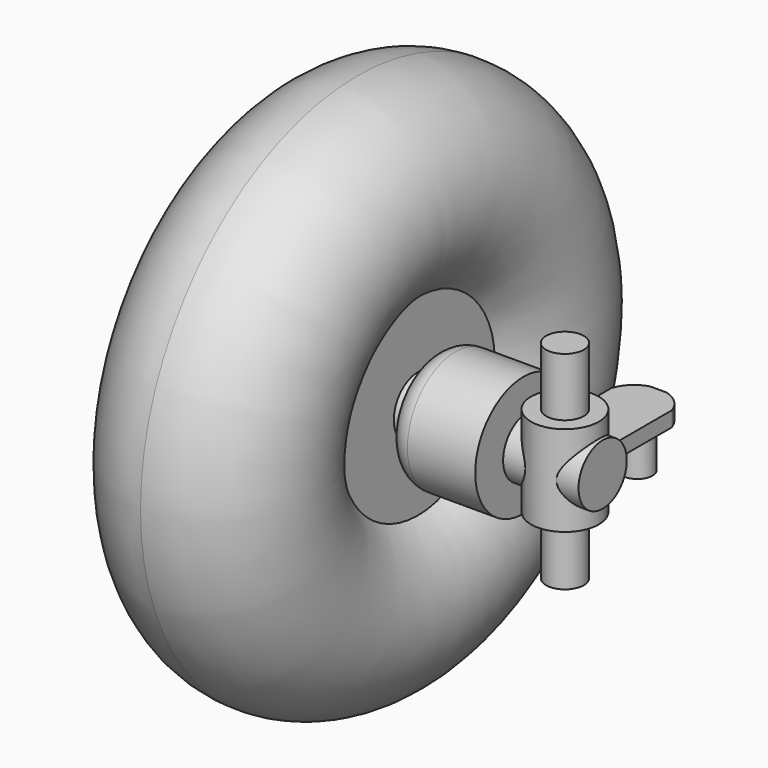
from build123d import *

# Parameters (mm, degrees)
TORUS_R                   = 13
CYLINDER006_R             = 4.5
CYLINDER006_DEPTH         = 12
CYLINDER007_R             = 4
CYLINDER007_DEPTH         = 10
PAD002_DEPTH              = 10
BOX001_W                  = 8
BOX001_H                  = 15.5
BOX001_DEPTH              = 2
CYLINDER008_R             = 2
CYLINDER008_DEPTH         = 7.5
CYLINDER005_R             = 2.5
CYLINDER005_DEPTH         = 27.5
CYLINDER009_R             = 1.5
CYLINDER009_DEPTH         = 20
CYLINDER020_R             = 4
CYLINDER020_DEPTH         = 2
BOX005_W                  = 4.6
BOX005_H                  = 1.7
BOX005_DEPTH              = 15
FILLET004_R               = 1
BOX004_W                  = 1.7
BOX004_H                  = 4.6
BOX004_DEPTH              = 15
FILLET003_R               = 1
CYLINDER021_R             = 1.5
CYLINDER021_DEPTH         = 10
PAD004_DEPTH              = 2.5
CYLINDER019_R             = 1.5
CYLINDER019_DEPTH         = 11
CYLINDER018_R             = 8
CYLINDER018_DEPTH         = 12
FILLET005_R               = 3
FUSION008_PLACEMENT_ANGLE = 90
CYLINDER013_R             = 16
CYLINDER013_DEPTH         = 20


with BuildPart() as toro:
    # Torus → Torus (revolve)
    with BuildSketch(Plane(origin=(-55, 0, 11), x_dir=(0, 0, -1), z_dir=(0, -1, 0))):
        with Locations((23, 0)):
            Circle(TORUS_R)
    revolve(axis=Axis((-55, 0, 11), (1, 0, 0)))


with BuildPart() as cilindro006:
    # Cylinder006 → Cylinder006 (new body)
    with BuildSketch(Plane.XY.offset(-6)):
        Circle(CYLINDER006_R)
    extrude(amount=CYLINDER006_DEPTH)


with BuildPart() as cilindro007:
    # Cylinder007 → Cylinder007 (new body)
    with BuildSketch(Plane(origin=(-5, 0, 0), x_dir=(0, 0, -1), z_dir=(1, 0, 0))):
        Circle(CYLINDER007_R)
    extrude(amount=CYLINDER007_DEPTH)


with BuildPart() as pad002:
    # Sketch002 → Pad002 (new body)
    with BuildSketch(Plane.XY):
        with BuildLine():
            ThreePointArc((4.129921, 10.668605), (-0.003253, 15.63264), (-4.128733, 10.662209))
            Line((-5.229172, 10.780737), (-4.128733, 10.662209))
            Line((-5.229172, 16.944185), (-5.229172, 10.780737))
            Line((5.596368, 16.944185), (-5.229172, 16.944185))
            Line((5.596368, 10.638987), (5.596368, 16.944185))
            Line((4.124442, 10.638987), (5.596368, 10.638987))
            Line((4.129921, 10.668605), (4.124442, 10.638987))
        make_face()
    extrude(amount=PAD002_DEPTH)


with BuildPart() as cut001:
    # Box001 → Box001 (new body)
    with BuildSketch(Plane(origin=(-4, 0, 0), x_dir=(1, 0, 0), z_dir=(0, 0, 1))):
        with Locations((4, 7.75)):
            Rectangle(BOX001_W, BOX001_H)
    extrude(amount=BOX001_DEPTH)

    # Cut001: cut Pad002
    add(pad002.part, mode=Mode.SUBTRACT)


with BuildPart() as cilindro008:
    # Cylinder008 → Cylinder008 (new body)
    with BuildSketch(Plane(origin=(0, 12, -6), x_dir=(1, 0, 0), z_dir=(0, 0, 1))):
        Circle(CYLINDER008_R)
    extrude(amount=CYLINDER008_DEPTH)


with BuildPart() as fusion001:
    # Cylinder005 → Cylinder005 (new body)
    with BuildSketch(Plane.XY.offset(-13.75)):
        Circle(CYLINDER005_R)
    extrude(amount=CYLINDER005_DEPTH)

    # Fusion001: union Cilindro006, Cilindro007, Cut001, Cilindro008
    add(cilindro006.part)
    add(cilindro007.part)
    add(cut001.part)
    add(cilindro008.part)


with BuildPart() as fusion001_1:
    # Fusion001 placement: moved
    add(fusion001.part.moved(Location((-27.5, 0, 11))))


with BuildPart() as cylinder009:
    # Cylinder009 → Cylinder009 (new body)
    with BuildSketch(Plane(origin=(-43, 0, 11), x_dir=(0, 0, -1), z_dir=(1, 0, 0))):
        Circle(CYLINDER009_R)
    extrude(amount=CYLINDER009_DEPTH)


with BuildPart() as cilindro016:
    # Cylinder020 → Cylinder020 (new body)
    with BuildSketch(Plane.XY.offset(12)):
        Circle(CYLINDER020_R)
    extrude(amount=CYLINDER020_DEPTH)


with BuildPart() as fillet004:
    # Box005 → Box005 (new body)
    with BuildSketch(Plane(origin=(-2.3, -0.85, 22), x_dir=(1, 0, 0), z_dir=(0, 0, 1))):
        with Locations((2.3, 0.85)):
            Rectangle(BOX005_W, BOX005_H)
    extrude(amount=BOX005_DEPTH)

    # Fillet004
    fillet004_edges = [fillet004.edges().sort_by_distance(p)[0] for p in [
        (-2.3, 0, 37),
        (2.3, 0, 37),
    ]]
    fillet(fillet004_edges, radius=FILLET004_R)


with BuildPart() as fusion006:
    # Box004 → Box004 (new body)
    with BuildSketch(Plane(origin=(-0.85, -2.3, 22), x_dir=(1, 0, 0), z_dir=(0, 0, 1))):
        with Locations((0.85, 2.3)):
            Rectangle(BOX004_W, BOX004_H)
    extrude(amount=BOX004_DEPTH)

    # Fillet003
    fillet003_edges = [fusion006.edges().sort_by_distance(p)[0] for p in [
        (0, -2.3, 37),
        (0, 2.3, 37),
    ]]
    fillet(fillet003_edges, radius=FILLET003_R)

    # Fusion006: union Fillet004
    add(fillet004.part)


with BuildPart() as fusion006_1:
    # Fusion006 placement: moved
    add(fusion006.part.moved(Location((0, 0, -8))))


with BuildPart() as taladro_tornillo001:
    # Cylinder021 → Cylinder021 (new body)
    with BuildSketch(Plane(origin=(0, 0, 4), x_dir=(1, 0, 0), z_dir=(0, 1, 0))):
        Circle(CYLINDER021_R)
    extrude(amount=CYLINDER021_DEPTH)


with BuildPart() as tuerca001:
    # Sketch005 → Pad004 (new body)
    with BuildSketch(Plane(origin=(0, 5, -2), x_dir=(1, 0, 0), z_dir=(0, -1, 0))):
        Polygon((0, 9.412578), (-2.887643, 7.71686), (-2.86293, 4.368228), (-2.86293, 0), (2.93707, 0), (2.93707, 4.411033), (2.912357, 7.759665), align=None)
    extrude(amount=PAD004_DEPTH)


with BuildPart() as hueco001:
    # Cylinder019 → Cylinder019 (new body)
    with BuildSketch(Plane.XY):
        Circle(CYLINDER019_R)
    extrude(amount=CYLINDER019_DEPTH)

    # Fusion007: union Taladro tornillo001, Tuerca001
    add(taladro_tornillo001.part)
    add(tuerca001.part)


with BuildPart() as fusion008:
    # Cylinder018 → Cylinder018 (new body)
    with BuildSketch(Plane.XY):
        Circle(CYLINDER018_R)
    extrude(amount=CYLINDER018_DEPTH)

    # Fillet005
    fillet005_edges = [fusion008.edges().sort_by_distance(p)[0] for p in [
        (-8, 0, 12),
    ]]
    fillet(fillet005_edges, radius=FILLET005_R)

    # Cut004: cut Hueco001
    add(hueco001.part, mode=Mode.SUBTRACT)

    # Fusion008: union Cilindro016, Fusion006
    add(cilindro016.part)
    add(fusion006_1.part)


with BuildPart() as fusion008_1:
    # Fusion008 placement: moved
    add(fusion008.part.moved(Location((-33, 0, 11))).rotate(Axis((-33, 0, 11), (0, -1, 0)), FUSION008_PLACEMENT_ANGLE))


with BuildPart() as fusion009:
    # Cylinder013 → Cylinder013 (new body)
    with BuildSketch(Plane(origin=(-67, 0, 11), x_dir=(0, 0, -1), z_dir=(1, 0, 0))):
        Circle(CYLINDER013_R)
    extrude(amount=CYLINDER013_DEPTH)

    # Fusion009: union Toro, Fusion001, Cylinder009, Fusion008
    add(toro.part)
    add(fusion001_1.part)
    add(cylinder009.part)
    add(fusion008_1.part)


solid = fusion009.part
